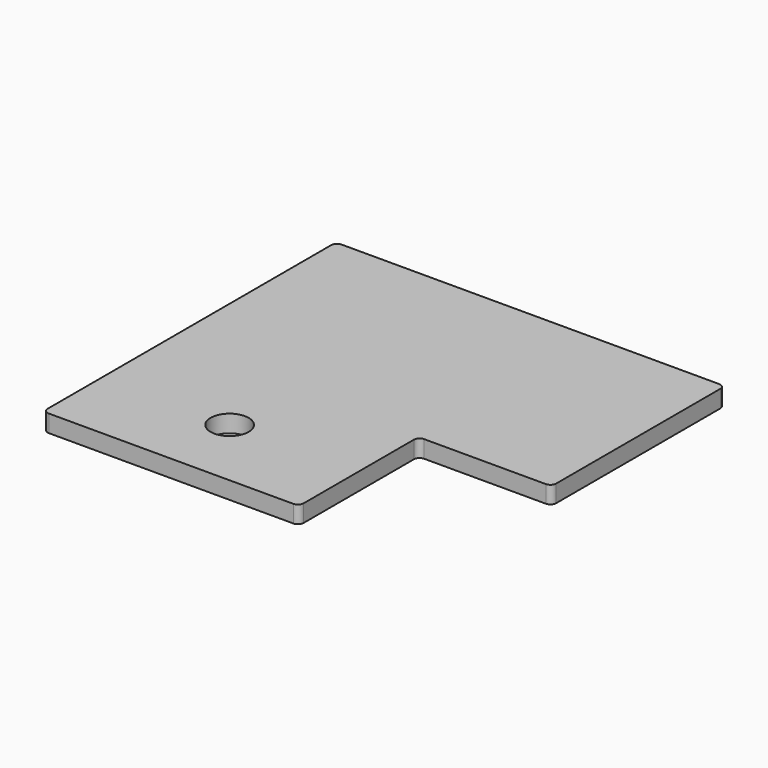
from build123d import *

# Parameters (mm, degrees)
SKETCH_R  = 3.302
PAD_DEPTH = 3


with BuildPart() as part:
    # Sketch → Pad (new body)
    with BuildSketch(Plane.XY):
        with BuildLine():
            Line((0, 62.5), (0, 1))
            ThreePointArc((0, 1), (0.292893, 0.292893), (1, 0))
            Line((1, 0), (43.41875, 0))
            ThreePointArc((43.41875, 0), (44.125857, 0.292893), (44.41875, 1))
            Line((44.41875, 1), (44.41875, 24.9))
            ThreePointArc((45.41875, 25.9), (44.711643, 25.607107), (44.41875, 24.9))
            Line((45.41875, 25.9), (66.51885, 25.9))
            ThreePointArc((66.51885, 25.9), (67.225957, 26.192893), (67.51885, 26.9))
            Line((67.51885, 26.9), (67.51885, 62.5))
            ThreePointArc((67.51885, 62.5), (67.225957, 63.207107), (66.51885, 63.5))
            Line((66.51885, 63.5), (1, 63.5))
            ThreePointArc((1, 63.5), (0.292893, 63.207107), (0, 62.5))
        make_face()
        with Locations((22.209375, 12.7)):
            Circle(SKETCH_R, mode=Mode.SUBTRACT)
    extrude(amount=PAD_DEPTH)


solid = part.part
